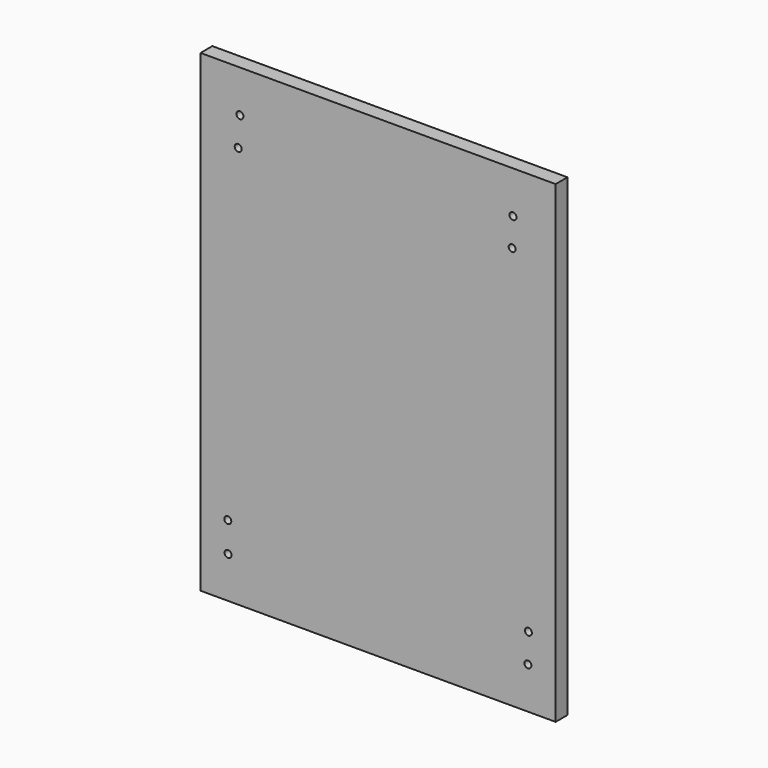
from build123d import *

# Parameters (mm, degrees)
F0_W     = 152.4
F0_H     = 203.2
F1_DEPTH = 6.35
F2_R     = 1.5
F3_DEPTH = 25.4
F4_DEPTH = 25.4
F5_DEPTH = 73.66
F6_DEPTH = 25.4
F7_R     = 1.5
F8_DEPTH = 25.4


with BuildPart() as f1:
    # F0 (on Front) → F1 (new body)
    with BuildSketch(Plane.XZ):
        Rectangle(F0_W, F0_H)
    extrude(amount=F1_DEPTH)

    # F2 (on Front) → F3 (cut)
    with BuildSketch(Plane.XZ):
        with Locations((-59.286408, 83.54041)):
            Circle(F2_R)
        with Locations((-60.025822, 70.970371)):
            Circle(F2_R)
        with Locations((57.910688, 83.54041)):
            Circle(F2_R)
        with Locations((57.540983, 71.340077)):
            Circle(F2_R)
    extrude(amount=-F3_DEPTH, mode=Mode.SUBTRACT)

    # F2 (on Front) → F4 (cut)
    with BuildSketch(Plane.XZ):
        with Locations((-59.286408, 83.54041)):
            Circle(F2_R)
        with Locations((-60.025822, 70.970371)):
            Circle(F2_R)
        with Locations((57.910688, 83.54041)):
            Circle(F2_R)
        with Locations((57.540983, 71.340077)):
            Circle(F2_R)
    extrude(amount=-F4_DEPTH, mode=Mode.SUBTRACT)

    # F2 (on Front) → F5 (cut)
    with BuildSketch(Plane.XZ):
        with Locations((-59.286408, 83.54041)):
            Circle(F2_R)
        with Locations((-60.025822, 70.970371)):
            Circle(F2_R)
        with Locations((57.910688, 83.54041)):
            Circle(F2_R)
        with Locations((57.540983, 71.340077)):
            Circle(F2_R)
    extrude(amount=-F5_DEPTH, mode=Mode.SUBTRACT)

    # F2 (on Front) → F6 (cut)
    with BuildSketch(Plane.XZ):
        with Locations((-59.286408, 83.54041)):
            Circle(F2_R)
        with Locations((-60.025822, 70.970371)):
            Circle(F2_R)
        with Locations((57.910688, 83.54041)):
            Circle(F2_R)
        with Locations((57.540983, 71.340077)):
            Circle(F2_R)
    extrude(amount=F6_DEPTH, mode=Mode.SUBTRACT)

    # F7 (on Front) → F8 (cut)
    with BuildSketch(Plane.XZ):
        with Locations((64.29223, -83.736338)):
            Circle(F7_R)
        with Locations((64.512201, -71.308076)):
            Circle(F7_R)
        with Locations((-64.389788, -83.846323)):
            Circle(F7_R)
        with Locations((-64.499773, -71.088105)):
            Circle(F7_R)
    extrude(amount=F8_DEPTH, mode=Mode.SUBTRACT)


solid = f1.part
